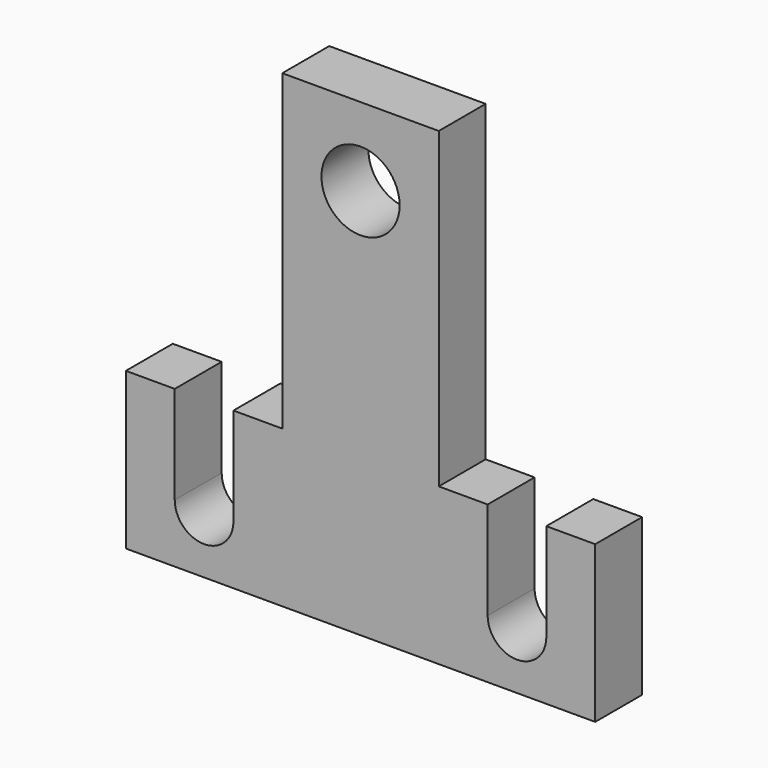
from build123d import *

# Parameters (mm, degrees)
F0_R     = 12.7
F1_DEPTH = 19.05


with BuildPart() as f1:
    # F0 (on Front) → F1 (new body)
    with BuildSketch(Plane.XZ):
        with BuildLine():
            Line((-171.0872, -13.951438), (-186.9622, -13.951438))
            Line((-186.9622, -13.951438), (-186.9622, 87.648562))
            Line((-186.9622, 87.648562), (-237.7622, 87.648562))
            Line((-237.7622, 87.648562), (-237.7622, -13.951438))
            Line((-237.7622, -13.951438), (-253.6372, -13.951438))
            Line((-253.6372, -13.951438), (-253.6372, -45.701438))
            ThreePointArc((-253.6372, -45.701438), (-263.1622, -55.226438), (-272.6872, -45.701438))
            Line((-272.6872, -45.701438), (-272.6872, -13.951438))
            Line((-272.6872, -13.951438), (-288.5622, -13.951438))
            Line((-288.5622, -13.951438), (-288.5622, -64.751438))
            Line((-288.5622, -64.751438), (-136.1622, -64.751438))
            Line((-136.1622, -64.751438), (-136.1622, -13.951438))
            Line((-136.1622, -13.951438), (-152.0372, -13.951438))
            Line((-152.0372, -13.951438), (-152.0372, -45.701438))
            ThreePointArc((-152.0372, -45.701438), (-161.5622, -55.226438), (-171.0872, -45.701438))
            Line((-171.0872, -45.701438), (-171.0872, -13.951438))
        make_face()
        with Locations((-212.3622, 62.248562)):
            Circle(F0_R, mode=Mode.SUBTRACT)
    extrude(amount=F1_DEPTH)


solid = f1.part
